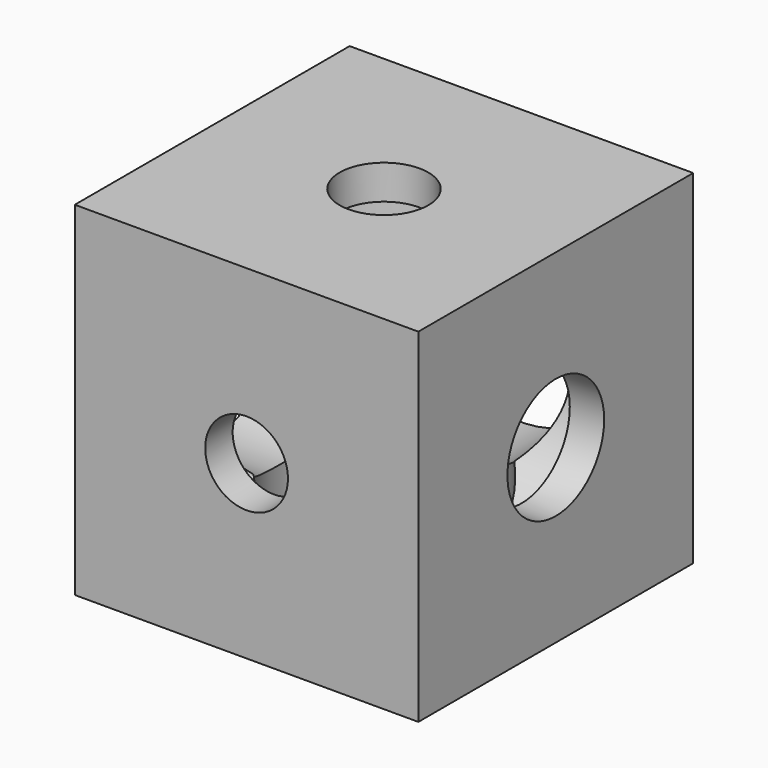
from build123d import *

# Parameters (mm, degrees)
SKETCH053_W     = 20
SKETCH053_H     = 20
PAD020_DEPTH    = 10
SKETCH054_R     = 5.966215
POCKET030_DEPTH = 18
SKETCH055_R     = 2.581292
POCKET031_DEPTH = 2
SKETCH056_R     = 6.020554
POCKET032_DEPTH = 18
SKETCH057_R     = 3.518198
POCKET033_DEPTH = 2
SKETCH058_R     = 6.023017
POCKET034_DEPTH = 18
SKETCH059_R     = 2.40921
POCKET035_DEPTH = 2


with BuildPart() as part:
    # Sketch053 → Pad020 (new body, symmetric)
    with BuildSketch(Plane(origin=(0, 451.8, 0), x_dir=(0, -1, 0), z_dir=(0, 0, 1))):
        Rectangle(SKETCH053_W, SKETCH053_H)
    extrude(amount=PAD020_DEPTH, both=True)

    # Sketch054 → Pocket030 (cut)
    with BuildSketch(Plane(origin=(0, 451.8, -10), x_dir=(0, -1, 0), z_dir=(0, 0, -1))):
        Circle(SKETCH054_R)
    extrude(amount=-POCKET030_DEPTH, mode=Mode.SUBTRACT)

    # Sketch055 → Pocket031 (cut)
    with BuildSketch(Plane(origin=(0, 451.8, 10), x_dir=(0, -1, 0), z_dir=(0, 0, 1))):
        Circle(SKETCH055_R)
    extrude(amount=-POCKET031_DEPTH, mode=Mode.SUBTRACT)

    # Sketch056 → Pocket032 (cut)
    with BuildSketch(Plane(origin=(-10, 451.8, 0), x_dir=(0, -1, 0), z_dir=(-1, 0, 0))):
        Circle(SKETCH056_R)
    extrude(amount=-POCKET032_DEPTH, mode=Mode.SUBTRACT)

    # Sketch057 → Pocket033 (cut)
    with BuildSketch(Plane(origin=(10, 451.8, 0), x_dir=(0, 1, 0), z_dir=(1, 0, 0))):
        Circle(SKETCH057_R)
    extrude(amount=-POCKET033_DEPTH, mode=Mode.SUBTRACT)

    # Sketch058 → Pocket034 (cut)
    with BuildSketch(Plane(origin=(0, 461.8, 0), x_dir=(-1, 0, 0), z_dir=(0, 1, 0))):
        Circle(SKETCH058_R)
    extrude(amount=-POCKET034_DEPTH, mode=Mode.SUBTRACT)

    # Sketch059 → Pocket035 (cut)
    with BuildSketch(Plane.XZ.offset(-441.8)):
        Circle(SKETCH059_R)
    extrude(amount=-POCKET035_DEPTH, mode=Mode.SUBTRACT)


solid = part.part
